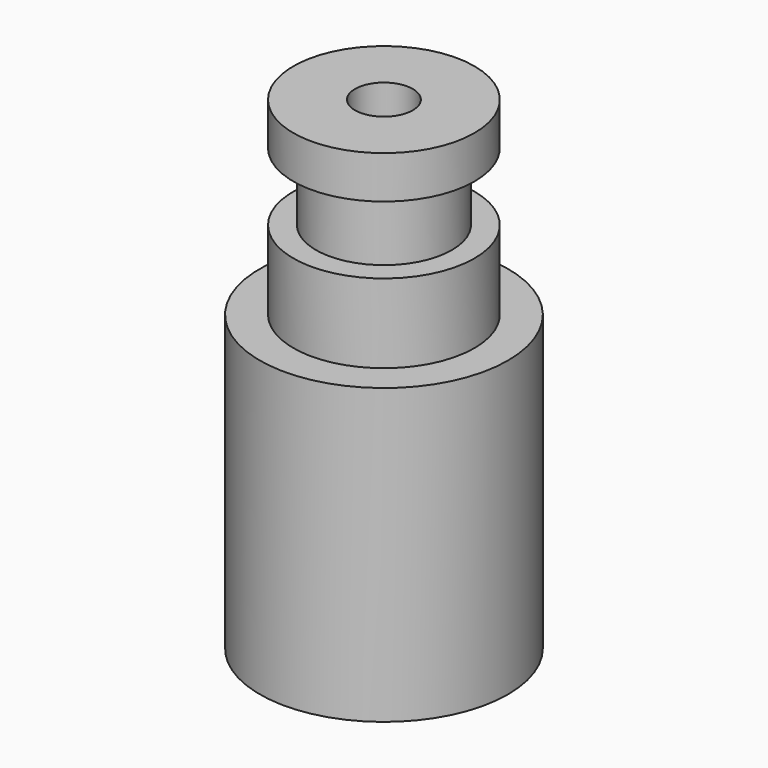
from build123d import *

# Parameters (mm, degrees)
F0_R     = 11
F0_R_2   = 8.025
F0_R_3   = 6.025
F1_DEPTH = 26.05
F2_DEPTH = 16.78
F3_DEPTH = 13
F4_DEPTH = 7
F6_D     = 5.12
F6_DEPTH = 120
F6_TIP   = 1.5382031847


with BuildPart() as f1:
    # F0 (on Top) → F1 (new body)
    with BuildSketch(Plane.XY):
        Circle(F0_R)
        Circle(F0_R_2, mode=Mode.SUBTRACT)
        Circle(F0_R_2)
        Circle(F0_R_3, mode=Mode.SUBTRACT)
        Circle(F0_R_3)
    extrude(amount=-F1_DEPTH)

    # F0 (on Top) → F2 (join)
    with BuildSketch(Plane.XY):
        Circle(F0_R_2)
        Circle(F0_R_3, mode=Mode.SUBTRACT)
        Circle(F0_R_3)
    extrude(amount=F2_DEPTH)

    # F0 (on Top) → F3 (cut)
    with BuildSketch(Plane.XY):
        Circle(F0_R_2)
        Circle(F0_R_3, mode=Mode.SUBTRACT)
    extrude(amount=F3_DEPTH, mode=Mode.SUBTRACT)

    # F0 (on Top) → F4 (join)
    with BuildSketch(Plane.XY):
        Circle(F0_R_2)
        Circle(F0_R_3, mode=Mode.SUBTRACT)
    extrude(amount=F4_DEPTH)

    # F6
    with Locations(Plane(origin=(0, 0, -26.05), x_dir=(1, 0, 0), z_dir=(0, 0, -1))):
        with Locations((0, 0)):
            Hole(F6_D / 2, depth=F6_DEPTH)
            with Locations((0, 0, -(F6_DEPTH + F6_TIP / 2))):  # 118° drill point
                Cone(0, F6_D / 2, F6_TIP, mode=Mode.SUBTRACT)


solid = f1.part
